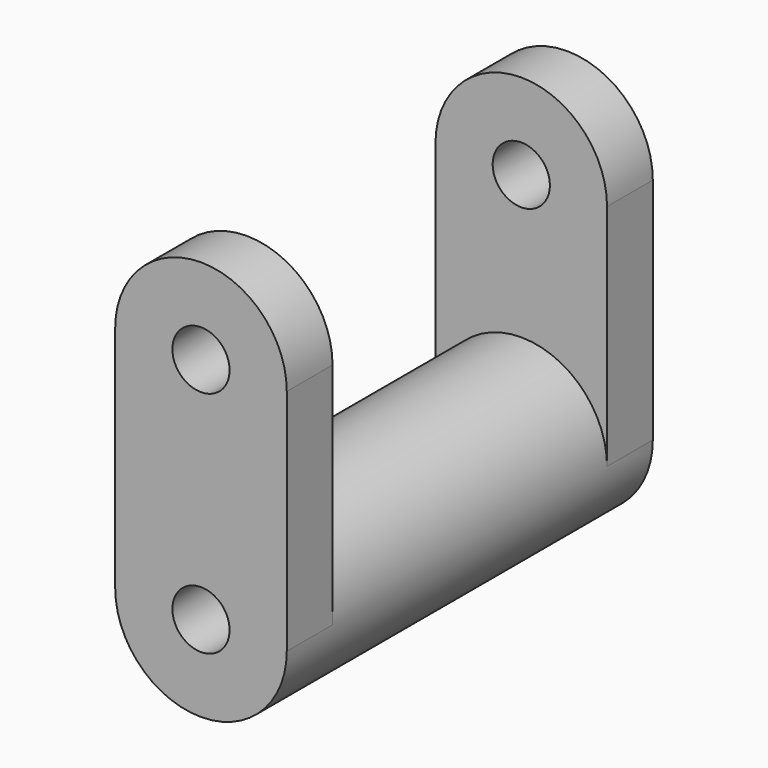
from build123d import *

# Parameters (mm, degrees)
F0_R     = 19.05
F0_R_2   = 6.35
F1_DEPTH = 50.8
F3_DEPTH = 12.7


with BuildPart() as f1:
    # F0 (on Front) → F1 (new body, symmetric)
    with BuildSketch(Plane.XZ):
        Circle(F0_R)
        Circle(F0_R_2, mode=Mode.SUBTRACT)
    extrude(amount=F1_DEPTH, both=True)

    # F2 (on face) → F3 (join)
    with BuildSketch(Plane.XZ.offset(50.8)):
        with BuildLine():
            Line((-19.05, 50.8), (-19.05, 0))
            ThreePointArc((-19.05, 0), (0, 19.05), (19.05, 0))
            Line((19.05, 0), (19.05, 50.8))
            ThreePointArc((19.05, 50.8), (0, 31.75), (-19.05, 50.8))
        make_face()
        with BuildLine():
            ThreePointArc((19.05, 50.8), (0, 69.85), (-19.05, 50.8))
            Line((-19.05, 50.8), (-6.35, 50.8))
            ThreePointArc((-6.35, 50.8), (0, 57.15), (6.35, 50.8))
            Line((6.35, 50.8), (19.05, 50.8))
        make_face()
        with BuildLine():
            Line((-6.35, 50.8), (-19.05, 50.8))
            ThreePointArc((-19.05, 50.8), (0, 31.75), (19.05, 50.8))
            Line((19.05, 50.8), (6.35, 50.8))
            ThreePointArc((6.35, 50.8), (0, 44.45), (-6.35, 50.8))
        make_face()
    extrude(amount=-F3_DEPTH)

    # F4: F1 across plane


with BuildPart() as f1_1:
    add(f1.part)
    add(f1.part.mirror(Plane.XZ))


solid = f1_1.part
